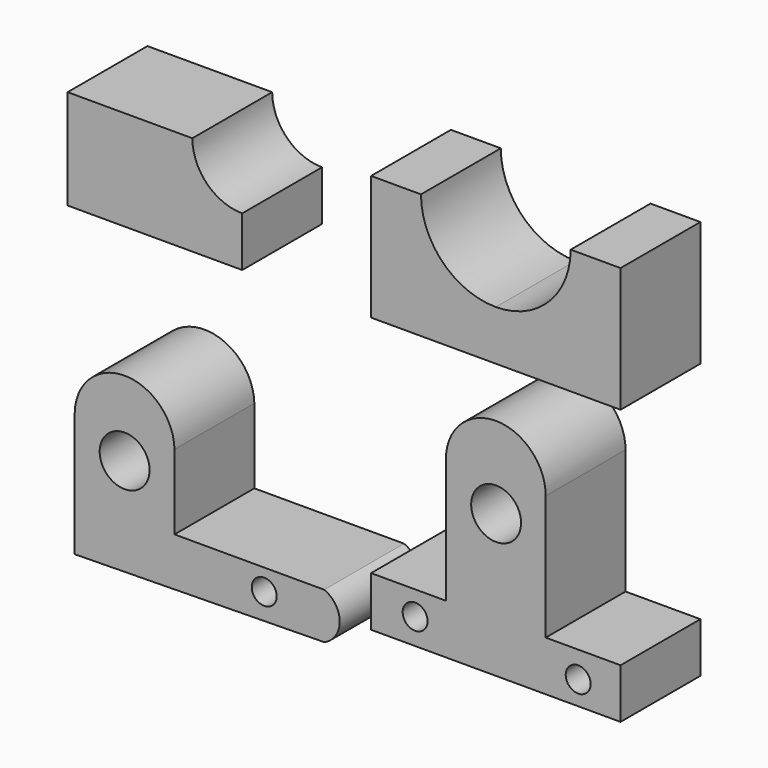
from build123d import *

# Parameters (mm, degrees)
F1_DEPTH = 25.4
F2_DEPTH = 25.4
F4_DEPTH = 25.4
F5_R     = 3.175
F5_R_2   = 6.35
F6_DEPTH = 25.4
F7_R     = 3.175
F7_R_2   = 6.35
F8_DEPTH = 25.4
F9_DEPTH = 25.4


with BuildPart() as f1:
    # F0 (on Front) → F1 (new body)
    with BuildSketch(Plane.XZ):
        with BuildLine():
            Line((12.7, 31.75), (0, 31.75))
            Line((0, 31.75), (0, 0))
            Line((0, 0), (31.75, 0))
            Line((31.75, 0), (31.75, 12.7))
            ThreePointArc((31.75, 12.7), (18.2796158184, 18.2796158184), (12.7, 31.75))
        make_face()
        with BuildLine():
            Line((31.75, 12.7), (31.75, 0))
            Line((31.75, 0), (63.5, 0))
            Line((63.5, 0), (63.5, 31.75))
            Line((63.5, 31.75), (50.8, 31.75))
            ThreePointArc((50.8, 31.75), (45.2203841816, 18.2796158184), (31.75, 12.7))
        make_face()
    extrude(amount=F1_DEPTH)

    # F0 (on Front) → F2 (join)
    with BuildSketch(Plane.XZ):
        with BuildLine():
            Line((12.7, 31.75), (0, 31.75))
            Line((0, 31.75), (0, 0))
            Line((0, 0), (31.75, 0))
            Line((31.75, 0), (31.75, 12.7))
            ThreePointArc((31.75, 12.7), (18.2796158184, 18.2796158184), (12.7, 31.75))
        make_face()
        with BuildLine():
            Line((31.75, 12.7), (31.75, 0))
            Line((31.75, 0), (63.5, 0))
            Line((63.5, 0), (63.5, 31.75))
            Line((63.5, 31.75), (50.8, 31.75))
            ThreePointArc((50.8, 31.75), (45.2203841816, 18.2796158184), (31.75, 12.7))
        make_face()
    extrude(amount=F2_DEPTH)


with BuildPart() as f4:
    # F3 (on Front) → F4 (new body)
    with BuildSketch(Plane.XZ):
        with BuildLine():
            Line((-77.2387412882, 25.4), (-77.2387412882, 0))
            Line((-77.2387412882, 0), (-32.7887412882, 0))
            Line((-32.7887412882, 0), (-32.7887412882, 12.7))
            ThreePointArc((-32.7887412882, 12.7), (-41.7689974093, 16.4197438789), (-45.4887412882, 25.4))
            Line((-45.4887412882, 25.4), (-77.2387412882, 25.4))
        make_face()
    extrude(amount=F4_DEPTH)


with BuildPart() as f6:
    # F5 (on Front) → F6 (new body)
    with BuildSketch(Plane.XZ):
        with BuildLine():
            Line((-75.4223912954, -45.7940514279), (-75.4223912954, -77.5440514279))
            Line((-75.4223912954, -77.5440514279), (-11.9294473242, -76.5974438719))
            ThreePointArc((-11.9294473242, -76.5974438719), (-7.9850535917, -70.7207476499), (-11.9294473242, -64.8440514279))
            Line((-11.9294473242, -64.8440514279), (-50.0294473242, -64.8440514279))
            Line((-50.0294473242, -64.8440514279), (-50.0294473242, -45.7940514279))
            ThreePointArc((-50.0294473242, -45.7940514279), (-62.7259193098, -33.3933825462), (-75.4223912954, -45.7940514279))
        make_face()
        with Locations((-27.2002895612, -70.2675515921)):
            Circle(F5_R, mode=Mode.SUBTRACT)
        with Locations((-62.7259193098, -52.4888336658)):
            Circle(F5_R_2, mode=Mode.SUBTRACT)
    extrude(amount=F6_DEPTH)


with BuildPart() as f8:
    # F7 (on Front) → F8 (new body)
    with BuildSketch(Plane.XZ):
        with BuildLine():
            Line((0, -57.2420115179), (0, -69.9420115179))
            Line((0, -69.9420115179), (63.5, -69.9386224151))
            Line((63.5, -69.9386224151), (63.5, -57.2420115179))
            Line((63.5, -57.2420115179), (44.45, -57.2420115179))
            Line((44.45, -57.2420115179), (44.45, -25.4920115179))
            ThreePointArc((44.45, -25.4920115179), (31.75, -12.7920115179), (19.05, -25.4920115179))
            Line((19.05, -25.4920115179), (19.05, -57.2420115179))
            Line((19.05, -57.2420115179), (0, -57.2420115179))
        make_face()
        with Locations((11.2158823758, -63.3554384112)):
            Circle(F7_R, mode=Mode.SUBTRACT)
        with Locations((52.7185946703, -63.9278888702)):
            Circle(F7_R, mode=Mode.SUBTRACT)
        with Locations((31.8241268396, -33.5879698396)):
            Circle(F7_R_2, mode=Mode.SUBTRACT)
    extrude(amount=F8_DEPTH)

    # F7 (on Front) → F9 (join)
    with BuildSketch(Plane.XZ):
        with BuildLine():
            Line((0, -57.2420115179), (0, -69.9420115179))
            Line((0, -69.9420115179), (63.5, -69.9386224151))
            Line((63.5, -69.9386224151), (63.5, -57.2420115179))
            Line((63.5, -57.2420115179), (44.45, -57.2420115179))
            Line((44.45, -57.2420115179), (44.45, -25.4920115179))
            ThreePointArc((44.45, -25.4920115179), (31.75, -12.7920115179), (19.05, -25.4920115179))
            Line((19.05, -25.4920115179), (19.05, -57.2420115179))
            Line((19.05, -57.2420115179), (0, -57.2420115179))
        make_face()
        with Locations((11.2158823758, -63.3554384112)):
            Circle(F7_R, mode=Mode.SUBTRACT)
        with Locations((52.7185946703, -63.9278888702)):
            Circle(F7_R, mode=Mode.SUBTRACT)
        with Locations((31.8241268396, -33.5879698396)):
            Circle(F7_R_2, mode=Mode.SUBTRACT)
    extrude(amount=F9_DEPTH)


solid = Compound([f1.part, f4.part, f6.part, f8.part])
